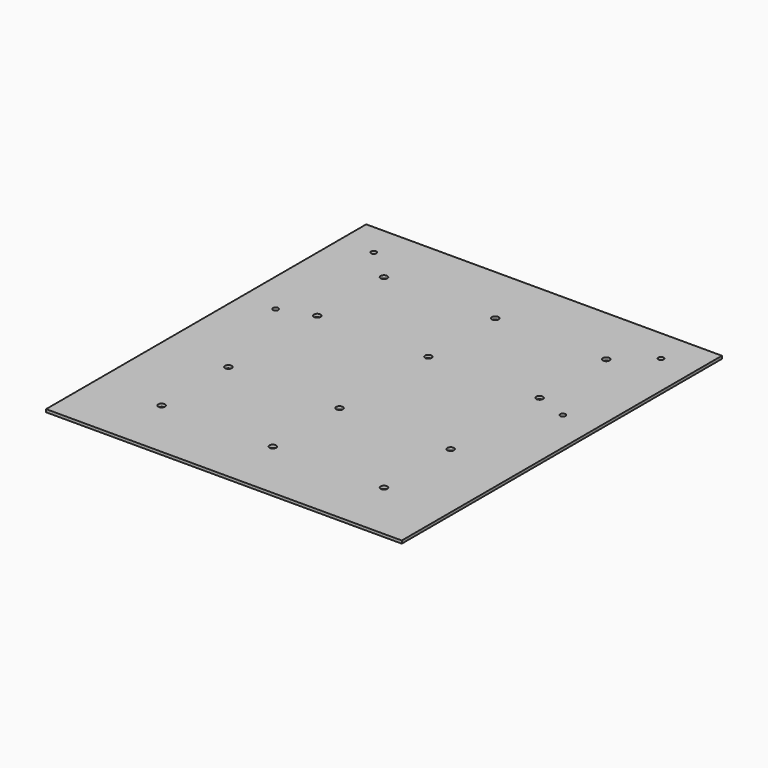
from build123d import *

# Parameters (mm, degrees)
F0_W     = 203.2
F0_H     = 228.6
F1_DEPTH = 1.6002
F2_R     = 1.524
F3_DEPTH = 1.6012
F4_R     = 1.905
F5_DEPTH = 1.6012


with BuildPart() as f1:
    # F0 (on Top) → F1 (new body)
    with BuildSketch(Plane.XY):
        with Locations((101.6, 114.3)):
            Rectangle(F0_W, F0_H)
    extrude(amount=F1_DEPTH)

    # F2 (on face) → F3 (cut, through all)
    with BuildSketch(Plane.XY.offset(1.6002)):
        with Locations((19.5834, 209.55)):
            Circle(F2_R)
        with Locations((183.6166, 209.55)):
            Circle(F2_R)
        with Locations((19.5834, 139.4968)):
            Circle(F2_R)
        with Locations((183.6166, 139.4968)):
            Circle(F2_R)
    extrude(amount=-F3_DEPTH, mode=Mode.SUBTRACT)

    # F4 (on face) → F5 (cut, through all)
    with BuildSketch(Plane.XY.offset(1.6002)):
        with Locations((165.1, 34.925)):
            Circle(F4_R)
        with Locations((165.1, 82.55)):
            Circle(F4_R)
        with Locations((101.6, 34.925)):
            Circle(F4_R)
        with Locations((101.6, 82.55)):
            Circle(F4_R)
        with Locations((38.1, 34.925)):
            Circle(F4_R)
        with Locations((38.1, 82.55)):
            Circle(F4_R)
        with Locations((165.1, 146.05)):
            Circle(F4_R)
        with Locations((101.6, 146.05)):
            Circle(F4_R)
        with Locations((38.1, 146.05)):
            Circle(F4_R)
        with Locations((38.1, 193.675)):
            Circle(F4_R)
        with Locations((101.6, 193.675)):
            Circle(F4_R)
        with Locations((165.1, 193.675)):
            Circle(F4_R)
    extrude(amount=-F5_DEPTH, mode=Mode.SUBTRACT)


solid = f1.part
